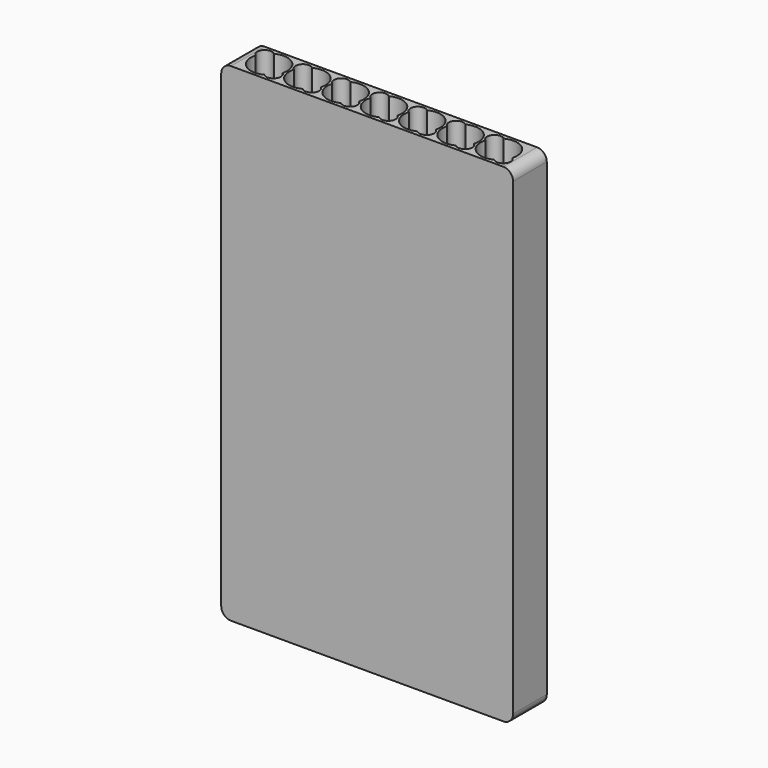
from build123d import *

# Parameters (mm, degrees)
F0_W     = 152.4
F0_H     = 22
F1_DEPTH = 254.982531
F2_R     = 5.08


with BuildPart() as f1:
    # F0 (on Top) → F1 (new body)
    with BuildSketch(Plane.XY):
        Rectangle(F0_W, F0_H)
        with BuildLine():
            ThreePointArc((-64.277419, 8.482552), (-53.939834, 7.316037), (-50.869507, -2.623757))
            ThreePointArc((-50.869507, -2.623757), (-50.195598, -8.121379), (-55.722581, -8.482552))
            ThreePointArc((-55.722581, -8.482552), (-66.060166, -7.316037), (-69.130493, 2.623757))
            ThreePointArc((-69.130493, 2.623757), (-69.804402, 8.121379), (-64.277419, 8.482552))
        make_face(mode=Mode.SUBTRACT)
        with BuildLine():
            ThreePointArc((-44.277419, 8.482552), (-33.939834, 7.316037), (-30.869507, -2.623757))
            ThreePointArc((-30.869507, -2.623757), (-30.195598, -8.121379), (-35.722581, -8.482552))
            ThreePointArc((-35.722581, -8.482552), (-46.060166, -7.316037), (-49.130493, 2.623757))
            ThreePointArc((-49.130493, 2.623757), (-49.804402, 8.121379), (-44.277419, 8.482552))
        make_face(mode=Mode.SUBTRACT)
        with BuildLine():
            ThreePointArc((-24.277419, 8.482552), (-13.939834, 7.316037), (-10.869507, -2.623757))
            ThreePointArc((-10.869507, -2.623757), (-10.195598, -8.121379), (-15.722581, -8.482552))
            ThreePointArc((-15.722581, -8.482552), (-26.060166, -7.316037), (-29.130493, 2.623757))
            ThreePointArc((-29.130493, 2.623757), (-29.804402, 8.121379), (-24.277419, 8.482552))
        make_face(mode=Mode.SUBTRACT)
        with BuildLine():
            ThreePointArc((4.277419, -8.482552), (-6.060166, -7.316037), (-9.130493, 2.623757))
            ThreePointArc((-9.130493, 2.623757), (-9.804402, 8.121379), (-4.277419, 8.482552))
            ThreePointArc((-4.277419, 8.482552), (6.060166, 7.316037), (9.130493, -2.623757))
            ThreePointArc((9.130493, -2.623757), (9.804402, -8.121379), (4.277419, -8.482552))
        make_face(mode=Mode.SUBTRACT)
        with BuildLine():
            ThreePointArc((15.722581, 8.482552), (26.060166, 7.316037), (29.130493, -2.623757))
            ThreePointArc((29.130493, -2.623757), (29.804402, -8.121379), (24.277419, -8.482552))
            ThreePointArc((24.277419, -8.482552), (13.939834, -7.316037), (10.869507, 2.623757))
            ThreePointArc((10.869507, 2.623757), (10.195598, 8.121379), (15.722581, 8.482552))
        make_face(mode=Mode.SUBTRACT)
        with BuildLine():
            ThreePointArc((35.722581, 8.482552), (46.060166, 7.316037), (49.130493, -2.623757))
            ThreePointArc((49.130493, -2.623757), (49.804402, -8.121379), (44.277419, -8.482552))
            ThreePointArc((44.277419, -8.482552), (33.939834, -7.316037), (30.869507, 2.623757))
            ThreePointArc((30.869507, 2.623757), (30.195598, 8.121379), (35.722581, 8.482552))
        make_face(mode=Mode.SUBTRACT)
        with BuildLine():
            ThreePointArc((55.722581, 8.482552), (66.060166, 7.316037), (69.130493, -2.623757))
            ThreePointArc((69.130493, -2.623757), (69.804402, -8.121379), (64.277419, -8.482552))
            ThreePointArc((64.277419, -8.482552), (53.939834, -7.316037), (50.869507, 2.623757))
            ThreePointArc((50.869507, 2.623757), (50.195598, 8.121379), (55.722581, 8.482552))
        make_face(mode=Mode.SUBTRACT)
    extrude(amount=F1_DEPTH)

    # F2
    f2_edges = [f1.edges().sort_by_distance(p)[0] for p in [
        (76.2, 0, 254.982531),
        (-76.2, 0, 254.982531),
        (76.2, 0, 0),
        (-76.2, 0, 0),
    ]]
    fillet(f2_edges, radius=F2_R)


solid = f1.part
